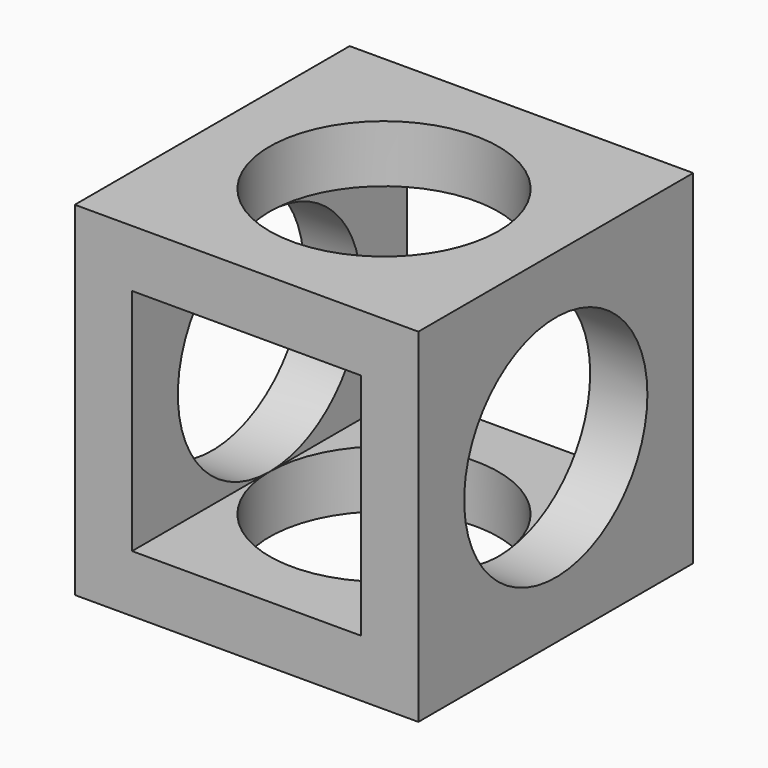
from build123d import *

# Parameters (mm, degrees)
F0_W     = 30
F0_H     = 30
F1_DEPTH = 15
F2_W     = 20
F2_H     = 20
F3_DEPTH = 30.001
F4_R     = 10
F5_DEPTH = 30.001
F6_R     = 10
F7_DEPTH = 30.001


with BuildPart() as f1:
    # F0 (on Front) → F1 (new body, symmetric)
    with BuildSketch(Plane.XZ):
        Rectangle(F0_W, F0_H)
    extrude(amount=F1_DEPTH, both=True)

    # F2 (on face) → F3 (cut, through all)
    with BuildSketch(Plane.XZ.offset(15)):
        Rectangle(F2_W, F2_H)
    extrude(amount=-F3_DEPTH, mode=Mode.SUBTRACT)

    # F4 (on face) → F5 (cut, through all)
    with BuildSketch(Plane.YZ.offset(15)):
        Circle(F4_R)
    extrude(amount=-F5_DEPTH, mode=Mode.SUBTRACT)

    # F6 (on face) → F7 (cut, through all)
    with BuildSketch(Plane.XY.offset(15)):
        Circle(F6_R)
    extrude(amount=-F7_DEPTH, mode=Mode.SUBTRACT)


solid = f1.part
